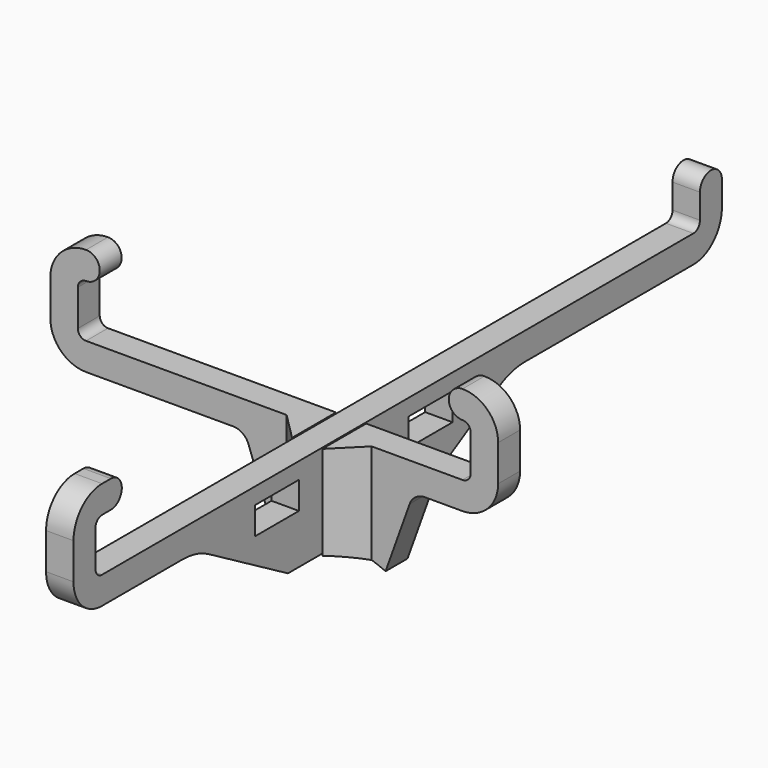
from build123d import *

# Parameters (mm, degrees)
SKETCH_W     = 10
SKETCH_H     = 5
PAD_DEPTH    = 2.5
PAD001_DEPTH = 2.5
PAD002_DEPTH = 20
POCKET_DEPTH = 10


with BuildPart() as vertical:
    # Sketch → Pad (new body, symmetric)
    with BuildSketch(Plane.YZ):
        with BuildLine():
            Line((83.85, 18.500001), (83.85, 22.999995))
            ThreePointArc((83.85, 22.999995), (81.350003, 25.499995), (78.85, 23))
            Line((78.85, 18.500008), (78.85, 23))
            ThreePointArc((77.349992, 17), (78.41066, 17.43934), (78.85, 18.500008))
            Line((-57.349999, 17), (77.349992, 17))
            ThreePointArc((-58.85, 18.499992), (-58.410657, 17.439337), (-57.349999, 17))
            Line((-58.85, 25.099999), (-58.85, 18.499992))
            ThreePointArc((-57.349999, 26.6), (-58.41066, 26.16066), (-58.85, 25.099999))
            Line((-57.349999, 26.6), (-55.349999, 26.6))
            ThreePointArc((-55.349999, 26.6), (-52.85, 29.100001), (-55.35, 31.6))
            Line((-55.35, 31.6), (-57.350001, 31.6))
            ThreePointArc((-57.350001, 31.6), (-61.946194, 29.696194), (-63.85, 25.1))
            Line((-63.85, 18.499992), (-63.85, 25.1))
            ThreePointArc((-63.85, 18.499992), (-61.946192, 13.903804), (-57.350002, 12))
            Line((-57.350002, 12), (-38.960681, 12))
            ThreePointArc((-33, 10.392302), (-35.873837, 11.59102), (-38.960681, 12))
            Line((-15, 0), (-33, 10.392302))
            Line((-15, 0), (-2.75, 0))
            Line((-2.75, 0), (-2.75, 8.7))
            Line((-2.75, 8.7), (2.75, 8.7))
            Line((2.75, 8.7), (2.75, 0))
            Line((2.75, 0), (15, 0))
            Line((15, 0), (33, 10.392302))
            ThreePointArc((38.960681, 12), (35.873837, 11.59102), (33, 10.392302))
            Line((38.960681, 12), (77.35, 12))
            ThreePointArc((77.35, 12), (81.946195, 13.903806), (83.85, 18.500001))
        make_face()
        with Locations((-17.5, 11.5)):
            Rectangle(SKETCH_W, SKETCH_H, mode=Mode.SUBTRACT)
        with Locations((17.5, 11.5)):
            Rectangle(SKETCH_W, SKETCH_H, mode=Mode.SUBTRACT)
    extrude(amount=PAD_DEPTH, both=True)


with BuildPart() as fusion:
    # Sketch001 → Pad001 (new body, symmetric)
    with BuildSketch(Plane.XZ):
        with BuildLine():
            Line((17.5, 12), (24.300001, 12))
            ThreePointArc((24.300001, 12), (28.896194, 13.903806), (30.8, 18.5))
            Line((30.8, 25.1), (30.8, 18.5))
            ThreePointArc((30.8, 25.1), (28.896194, 29.696193), (24.300001, 31.599999))
            ThreePointArc((24.300001, 31.599999), (21.800001, 29.1), (24.300001, 26.599999))
            ThreePointArc((25.8, 25.1), (25.36066, 26.160659), (24.300001, 26.599999))
            Line((25.8, 18.499999), (25.8, 25.1))
            ThreePointArc((24.300001, 17), (25.36066, 17.43934), (25.8, 18.499999))
            Line((2.75, 17), (24.300001, 17))
            Line((2.75, 8.3), (2.75, 17))
            Line((-2.75, 8.3), (2.75, 8.3))
            Line((-2.75, 17), (-2.75, 8.3))
            Line((-44.3, 17), (-2.75, 17))
            ThreePointArc((-45.8, 18.5), (-45.36066, 17.43934), (-44.3, 17))
            Line((-45.8, 18.5), (-45.8, 25.1))
            ThreePointArc((-44.299998, 26.6), (-45.360659, 26.160661), (-45.8, 25.1))
            ThreePointArc((-44.299998, 26.6), (-41.799998, 29.1), (-44.299998, 31.6))
            ThreePointArc((-44.299998, 31.6), (-48.896193, 29.696195), (-50.8, 25.1))
            Line((-50.8, 25.1), (-50.8, 18.5))
            ThreePointArc((-50.8, 18.5), (-48.896193, 13.903805), (-44.299997, 12))
            Line((-44.299997, 12), (-17.5, 12))
            ThreePointArc((-14.67676, 10.014531), (-15.774257, 11.453933), (-17.5, 12))
            Line((-14.67676, 10.014531), (-10, -3))
            Line((-10, -3), (10, -3))
            Line((10, -3), (14.676752, 10.01453))
            ThreePointArc((17.5, 12), (15.774252, 11.453934), (14.676752, 10.01453))
        make_face()
    extrude(amount=PAD001_DEPTH, both=True)

    # Sketch002 → Pad002 (new body)
    with BuildSketch(Plane(origin=(0, 0, 17), x_dir=(-1, 0, 0), z_dir=(0, 0, 1))):
        Polygon((-7.75, 2.5), (-2.75, 7.5), (-2.75, 2.5), align=None)
        Polygon((2.75, 7.5), (2.75, 2.5), (7.75, 2.5), align=None)
    extrude(amount=-PAD002_DEPTH)

    # Sketch003 → Pocket (cut)
    with BuildSketch(Plane(origin=(0, 2.5, 0), x_dir=(1, 0, 0), z_dir=(0, 1, 0))):
        with BuildLine():
            ThreePointArc((-12.5, 3.349365), (0, 0), (12.5, 3.349365))
            Line((-12.5, 3.349365), (12.5, 3.349365))
        make_face()
    extrude(amount=-POCKET_DEPTH, mode=Mode.SUBTRACT)

    # Fusion: union Vertical
    add(vertical.part)


solid = fusion.part
